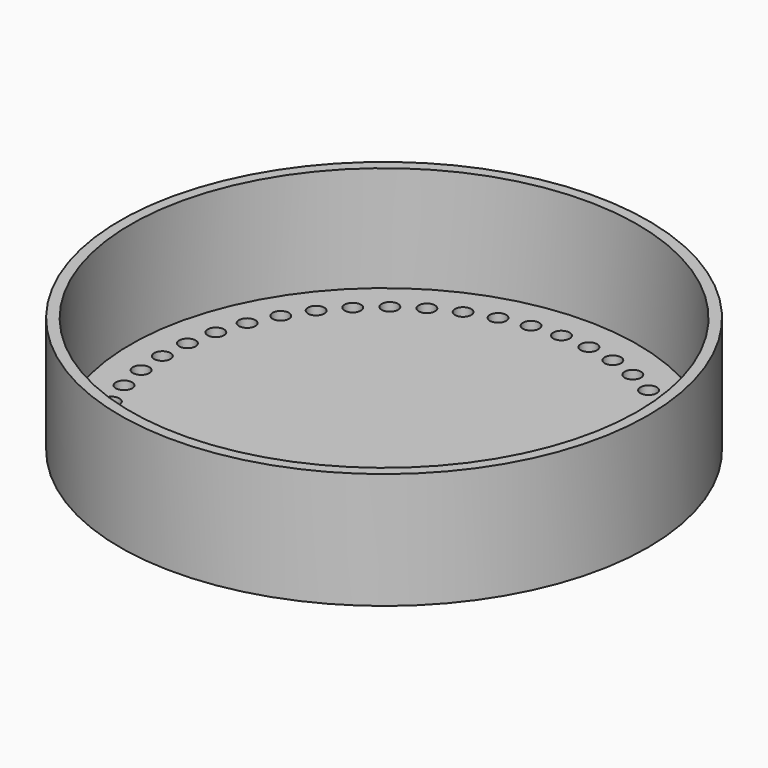
from build123d import *

# Parameters (mm, degrees)
F0_R     = 50
F0_R_2   = 1.55
F1_DEPTH = 2
F2_R     = 50
F2_R_2   = 48
F3_DEPTH = 20


with BuildPart() as f1:
    # F0 (on Top) → F1 (new body)
    with BuildSketch(Plane.XY):
        Circle(F0_R)
        with Locations((-25.56798, -33.32084)):
            Circle(F0_R_2, mode=Mode.SUBTRACT)
        with Locations((-33.32084, -25.56798)):
            Circle(F0_R_2, mode=Mode.SUBTRACT)
        with Locations((-29.698485, -29.698485)):
            Circle(F0_R_2, mode=Mode.SUBTRACT)
        with Locations((-16.072704, -38.80294)):
            Circle(F0_R_2, mode=Mode.SUBTRACT)
        with Locations((-10.8704, -40.568885)):
            Circle(F0_R_2, mode=Mode.SUBTRACT)
        with Locations((-5.4821, -41.640684)):
            Circle(F0_R_2, mode=Mode.SUBTRACT)
        with Locations((-21, -36.373067)):
            Circle(F0_R_2, mode=Mode.SUBTRACT)
        with Locations((-38.80294, -16.072704)):
            Circle(F0_R_2, mode=Mode.SUBTRACT)
        with Locations((-36.373067, -21)):
            Circle(F0_R_2, mode=Mode.SUBTRACT)
        with Locations((-40.568885, -10.8704)):
            Circle(F0_R_2, mode=Mode.SUBTRACT)
        with Locations((-41.640684, -5.4821)):
            Circle(F0_R_2, mode=Mode.SUBTRACT)
        with Locations((0, -42)):
            Circle(F0_R_2, mode=Mode.SUBTRACT)
        with Locations((5.4821, -41.640684)):
            Circle(F0_R_2, mode=Mode.SUBTRACT)
        with Locations((10.8704, -40.568885)):
            Circle(F0_R_2, mode=Mode.SUBTRACT)
        with Locations((16.072704, -38.80294)):
            Circle(F0_R_2, mode=Mode.SUBTRACT)
        with Locations((21, -36.373067)):
            Circle(F0_R_2, mode=Mode.SUBTRACT)
        with Locations((25.56798, -33.32084)):
            Circle(F0_R_2, mode=Mode.SUBTRACT)
        with Locations((29.698485, -29.698485)):
            Circle(F0_R_2, mode=Mode.SUBTRACT)
        with Locations((33.32084, -25.56798)):
            Circle(F0_R_2, mode=Mode.SUBTRACT)
        with Locations((36.373067, -21)):
            Circle(F0_R_2, mode=Mode.SUBTRACT)
        with Locations((38.80294, -16.072704)):
            Circle(F0_R_2, mode=Mode.SUBTRACT)
        with Locations((40.568885, -10.8704)):
            Circle(F0_R_2, mode=Mode.SUBTRACT)
        with Locations((41.640684, -5.4821)):
            Circle(F0_R_2, mode=Mode.SUBTRACT)
        with Locations((-42, 0)):
            Circle(F0_R_2, mode=Mode.SUBTRACT)
        with Locations((-41.640684, 5.4821)):
            Circle(F0_R_2, mode=Mode.SUBTRACT)
        with Locations((-40.568885, 10.8704)):
            Circle(F0_R_2, mode=Mode.SUBTRACT)
        with Locations((-38.80294, 16.072704)):
            Circle(F0_R_2, mode=Mode.SUBTRACT)
        with Locations((-36.373067, 21)):
            Circle(F0_R_2, mode=Mode.SUBTRACT)
        with Locations((-33.32084, 25.56798)):
            Circle(F0_R_2, mode=Mode.SUBTRACT)
        with Locations((-29.698485, 29.698485)):
            Circle(F0_R_2, mode=Mode.SUBTRACT)
        with Locations((-25.56798, 33.32084)):
            Circle(F0_R_2, mode=Mode.SUBTRACT)
        with Locations((-21, 36.373067)):
            Circle(F0_R_2, mode=Mode.SUBTRACT)
        with Locations((-16.072704, 38.80294)):
            Circle(F0_R_2, mode=Mode.SUBTRACT)
        with Locations((-10.8704, 40.568885)):
            Circle(F0_R_2, mode=Mode.SUBTRACT)
        with Locations((-5.4821, 41.640684)):
            Circle(F0_R_2, mode=Mode.SUBTRACT)
        with Locations((42, 0)):
            Circle(F0_R_2, mode=Mode.SUBTRACT)
        with Locations((41.640684, 5.4821)):
            Circle(F0_R_2, mode=Mode.SUBTRACT)
        with Locations((40.568885, 10.8704)):
            Circle(F0_R_2, mode=Mode.SUBTRACT)
        with Locations((36.373067, 21)):
            Circle(F0_R_2, mode=Mode.SUBTRACT)
        with Locations((38.80294, 16.072704)):
            Circle(F0_R_2, mode=Mode.SUBTRACT)
        with Locations((21, 36.373067)):
            Circle(F0_R_2, mode=Mode.SUBTRACT)
        with Locations((0, 42)):
            Circle(F0_R_2, mode=Mode.SUBTRACT)
        with Locations((5.4821, 41.640684)):
            Circle(F0_R_2, mode=Mode.SUBTRACT)
        with Locations((10.8704, 40.568885)):
            Circle(F0_R_2, mode=Mode.SUBTRACT)
        with Locations((16.072704, 38.80294)):
            Circle(F0_R_2, mode=Mode.SUBTRACT)
        with Locations((29.698485, 29.698485)):
            Circle(F0_R_2, mode=Mode.SUBTRACT)
        with Locations((33.32084, 25.56798)):
            Circle(F0_R_2, mode=Mode.SUBTRACT)
        with Locations((25.56798, 33.32084)):
            Circle(F0_R_2, mode=Mode.SUBTRACT)
    extrude(amount=F1_DEPTH)

    # F2 (on face) → F3 (join)
    with BuildSketch(Plane.XY.offset(2)):
        Circle(F2_R)
        Circle(F2_R_2, mode=Mode.SUBTRACT)
    extrude(amount=F3_DEPTH)


solid = f1.part
